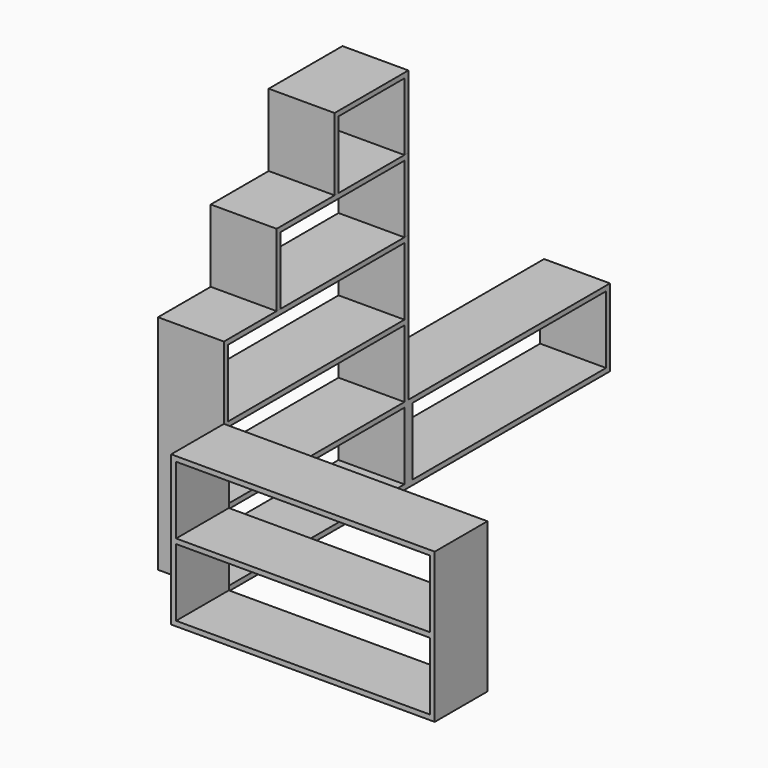
from build123d import *

# Parameters (mm, degrees)
F0_W      = 1016
F0_H      = 577.85
F0_W_2    = 977.9
F0_H_2    = 260.35
F1_DEPTH  = 254
F2_W      = 889
F2_H      = 857.25
F2_W_2    = 850.9
F2_H_2    = 260.35
F3_DEPTH  = 254
F6_DEPTH  = 254
F8_DEPTH  = 254
F9_W      = 971.55
F9_H      = 298.45
F9_W_2    = 933.45
F9_H_2    = 260.35
F10_DEPTH = 254


with BuildPart() as f1:
    # F0 (on Front) → F1 (new body)
    with BuildSketch(Plane.XZ):
        with Locations((508, 288.925)):
            Rectangle(F0_W, F0_H)
        with Locations((508, 149.225)):
            Rectangle(F0_W_2, F0_H_2, mode=Mode.SUBTRACT)
        with Locations((508, 428.625)):
            Rectangle(F0_W_2, F0_H_2, mode=Mode.SUBTRACT)
    extrude(amount=F1_DEPTH)


with BuildPart() as f3:
    # F2 (on face) → F3 (new body)
    with BuildSketch(Plane(origin=(0, 0, 0), x_dir=(0, -1, 0), z_dir=(-1, 0, 0))):
        with Locations((-444.5, 428.625)):
            Rectangle(F2_W, F2_H)
        with Locations((-444.5, 149.225)):
            Rectangle(F2_W_2, F2_H_2, mode=Mode.SUBTRACT)
        with Locations((-444.5, 428.625)):
            Rectangle(F2_W_2, F2_H_2, mode=Mode.SUBTRACT)
        with Locations((-444.5, 708.025)):
            Rectangle(F2_W_2, F2_H_2, mode=Mode.SUBTRACT)
    extrude(amount=F3_DEPTH)

    # F9 (on face) → F10 (join)
    with BuildSketch(Plane.YZ):
        with Locations((1374.775, 149.225)):
            Rectangle(F9_W, F9_H)
        with Locations((1374.775, 149.225)):
            Rectangle(F9_W_2, F9_H_2, mode=Mode.SUBTRACT)
    extrude(amount=-F10_DEPTH)


with BuildPart() as f6:
    # F5 (on face) → F6 (new body)
    with BuildSketch(Plane.YZ):
        Polygon((889, 857.25), (889, 1136.65), (254, 1136.65), (254, 857.25), (273.05, 857.25), (273.05, 1117.6), (869.95, 1117.6), (869.95, 857.25), align=None)
    extrude(amount=-F6_DEPTH)


with BuildPart() as f8:
    # F7 (on face) → F8 (new body)
    with BuildSketch(Plane.YZ):
        Polygon((533.4, 1416.05), (533.4, 1136.65), (552.45, 1136.65), (552.45, 1397), (869.95, 1397), (869.95, 1136.65), (889, 1136.65), (889, 1416.05), align=None)
    extrude(amount=-F8_DEPTH)


solid = Compound([f1.part, f3.part, f6.part, f8.part])
